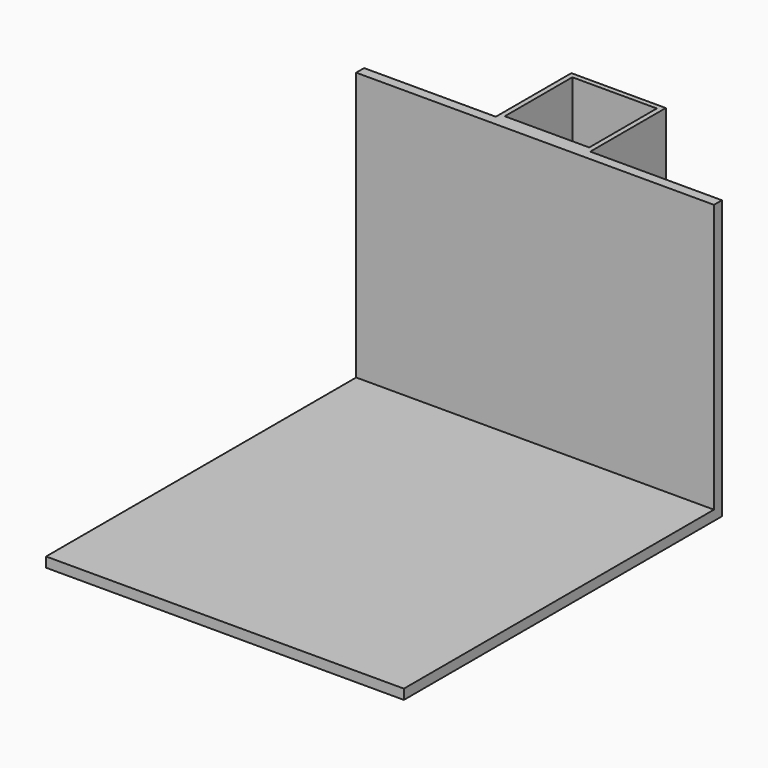
from build123d import *

# Parameters (mm, degrees)
F0_W     = 60.325
F0_H     = 60.325
F0_W_2   = 53.975
F0_H_2   = 53.975
F1_DEPTH = 76.2
F3_DEPTH = 114.3


with BuildPart() as f1:
    # F0 (on Top) → F1 (new body)
    with BuildSketch(Plane.XY):
        Rectangle(F0_W, F0_H)
        Rectangle(F0_W_2, F0_H_2, mode=Mode.SUBTRACT)
    extrude(amount=F1_DEPTH)

    # F2 (on Right) → F3 (join, symmetric)
    with BuildSketch(Plane.YZ):
        Polygon((-30.1625, -101.6), (-30.1625, 76.2), (-36.5125, 76.2), (-36.5125, -95.25), (-284.1625, -95.25), (-284.1625, -101.6), align=None)
    extrude(amount=F3_DEPTH, both=True)


solid = f1.part
